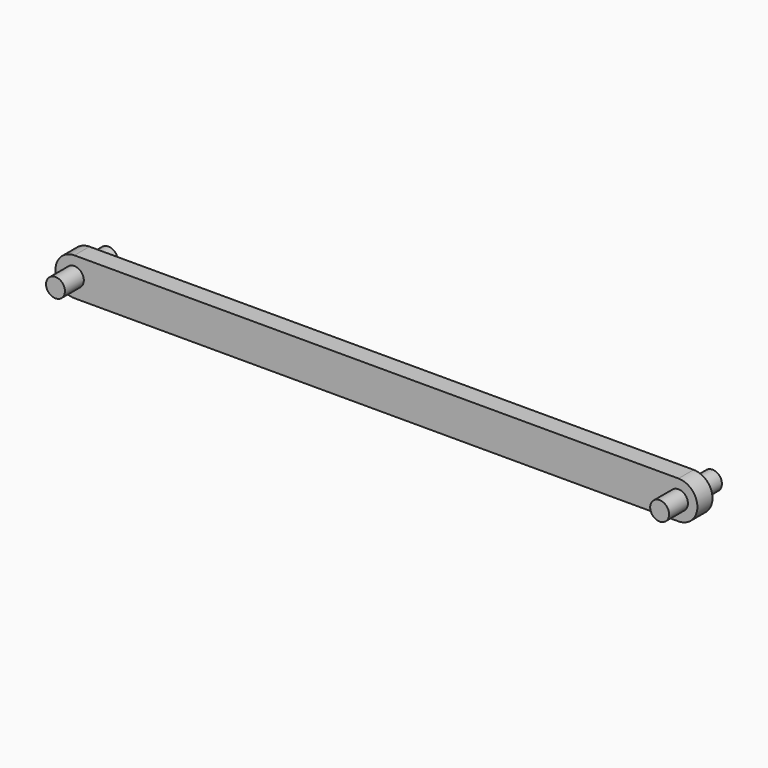
from build123d import *

# Parameters (mm, degrees)
F0_R     = 5
F1_DEPTH = 10
F3_R     = 5
F4_DEPTH = 35


with BuildPart() as f1:
    # F0 (on Front) → F1 (new body)
    with BuildSketch(Plane.XZ):
        with BuildLine():
            Line((320, 10), (0, 10))
            ThreePointArc((0, 10), (-10, 0), (0, -10))
            Line((0, -10), (320, -10))
            ThreePointArc((320, -10), (330, 0), (320, 10))
        make_face()
        Circle(F0_R, mode=Mode.SUBTRACT)
        with Locations((320, 0)):
            Circle(F0_R, mode=Mode.SUBTRACT)
    extrude(amount=F1_DEPTH)

    # F3 (on offset) → F4 (join)
    with BuildSketch(Plane.XZ.offset(-12.5)):
        Circle(F3_R)
        with Locations((320, 0)):
            Circle(F3_R)
    extrude(amount=F4_DEPTH)


solid = f1.part
